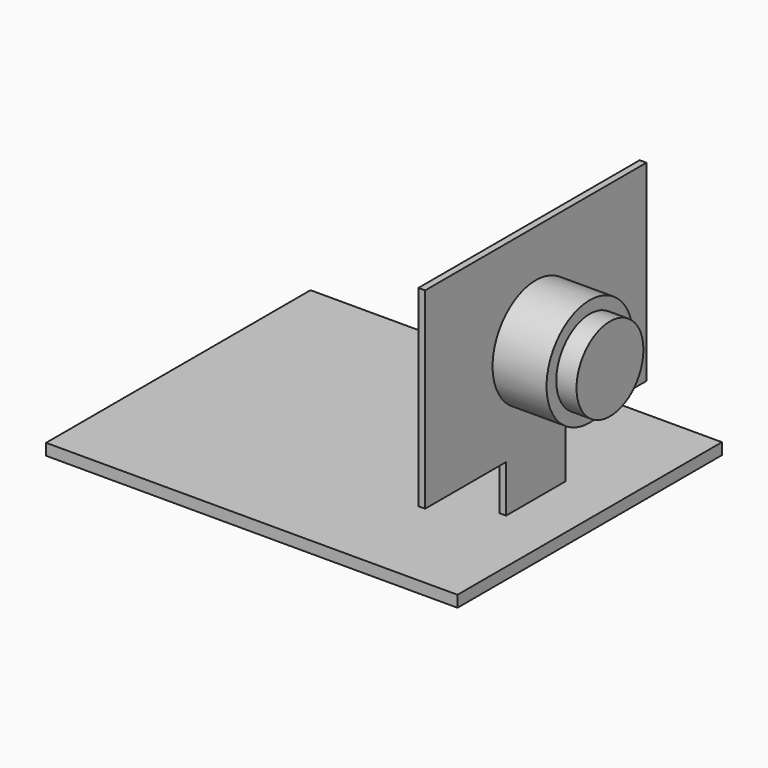
from build123d import *

# Parameters (mm, degrees)
F0_W     = 61
F0_H     = 49
F1_DEPTH = 1.7
F3_W     = 11
F3_H     = 7
F4_DEPTH = 1
F5_R     = 8
F6_DEPTH = 8
F7_R     = 6.2
F8_DEPTH = 3


with BuildPart() as f1:
    # F0 (on Top) → F1 (new body)
    with BuildSketch(Plane.XY):
        with Locations((-30.5, 24.5)):
            Rectangle(F0_W, F0_H)
    extrude(amount=F1_DEPTH)

    # F3 (on offset) → F4 (join)
    with BuildSketch(Plane.YZ.offset(-8)):
        Polygon((4, 8.7), (19, 8.7), (30, 8.7), (45, 8.7), (45, 37.2), (4, 37.2), align=None)
        with Locations((24.5, 5.2)):
            Rectangle(F3_W, F3_H)
    extrude(amount=-F4_DEPTH)

    # F5 (on face) → F6 (join)
    with BuildSketch(Plane.YZ.offset(-8)):
        with Locations((24.5, 22.2)):
            Circle(F5_R)
    extrude(amount=F6_DEPTH)

    # F7 (on face) → F8 (join)
    with BuildSketch(Plane.YZ):
        with Locations((24.5, 22.2)):
            Circle(F7_R)
    extrude(amount=F8_DEPTH)


solid = f1.part
